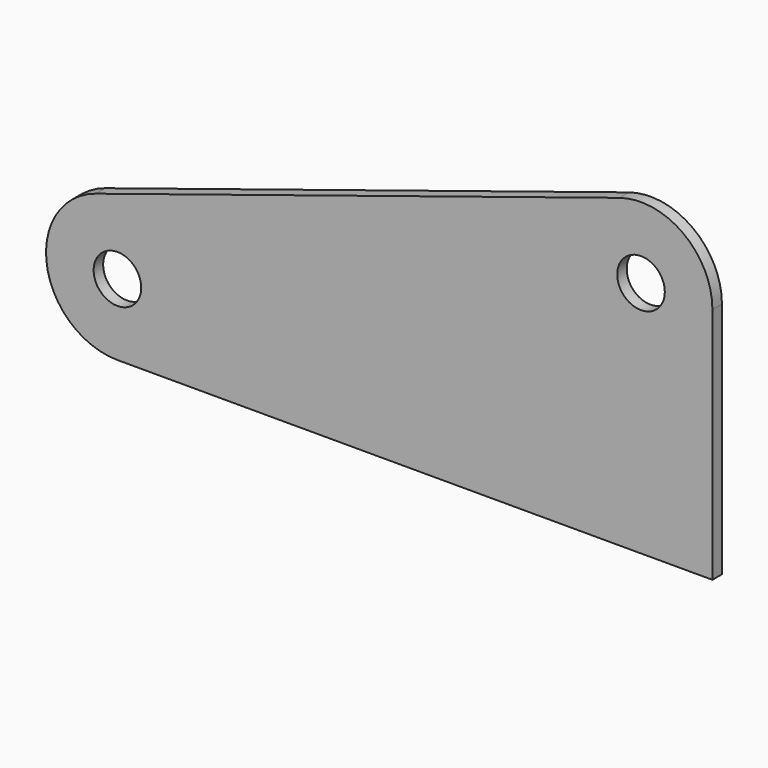
from build123d import *

# Parameters (mm, degrees)
F1_R     = 10
F2_DEPTH = 2.5


with BuildPart() as f2:
    # F1 (on offset) → F2 (new body, symmetric)
    with BuildSketch(Plane.XZ.offset(25)):
        with BuildLine():
            ThreePointArc((-259.09611, 58.587773), (-279.644841, 25.397457), (-250, 0))
            Line((-250, 0), (0, 0))
            Line((0, 0), (0, 100))
            ThreePointArc((0, 100), (-12.292421, 124.216557), (-39.09611, 128.587773))
            Line((-39.09611, 128.587773), (-259.09611, 58.587773))
        make_face()
        with Locations((-250, 30)):
            Circle(F1_R, mode=Mode.SUBTRACT)
        with Locations((-30, 100)):
            Circle(F1_R, mode=Mode.SUBTRACT)
    extrude(amount=F2_DEPTH, both=True)


solid = f2.part
